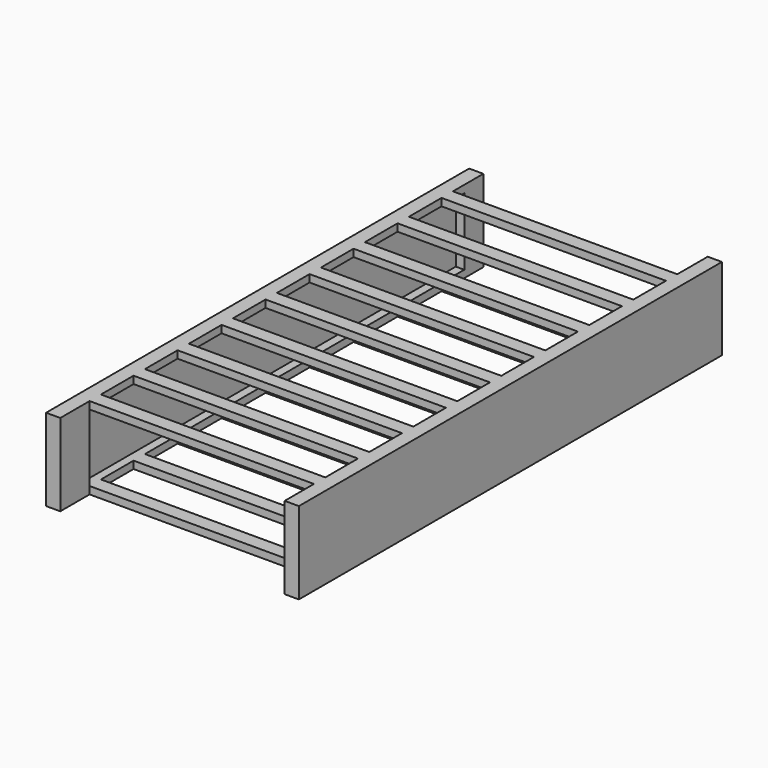
from build123d import *

# Parameters (mm, degrees)
F0_W     = 74.25791291
F0_H     = 4.7
F0_W_2   = 3.271043545
F0_W_3   = 1.428956455
F0_H_2   = 8.3906837511
F0_H_3   = 13.5
F0_H_4   = 7.9193162489
F1_DEPTH = 27.2
F2_W     = 39.9343147874
F2_H     = 22.3026155613
F3_DEPTH = 155


with BuildPart() as f1:
    # F0 (on Top) → F1 (new body)
    with BuildSketch(Plane.XY):
        Polygon((-41.828956455, 87.5000014901), (-41.828956455, 74.9143162489), (-40.4, 74.9143162489), (-40.4, 83.305), (-37.128956455, 83.305), (-37.128956455, 87.5000014901), align=None)
        with Locations((0, 72.5643162489)):
            Rectangle(F0_W, F0_H)
        with Locations((-38.7644782275, 72.5643162489)):
            Rectangle(F0_W_2, F0_H)
        with Locations((-41.1144782275, 72.5643162489)):
            Rectangle(F0_W_3, F0_H)
        with Locations((38.7644782275, 79.1096581244)):
            Rectangle(F0_W_2, F0_H_2)
        Polygon((37.128956455, 87.5000014901), (37.128956455, 83.305), (40.4, 83.305), (40.4, 74.9143162489), (41.828956455, 74.9143162489), (41.828956455, 87.5000014901), align=None)
        with Locations((38.7644782275, 72.5643162489)):
            Rectangle(F0_W_2, F0_H)
        with Locations((41.1144782275, 72.5643162489)):
            Rectangle(F0_W_3, F0_H)
        with Locations((-41.1144782275, 63.4643162489)):
            Rectangle(F0_W_3, F0_H_3)
        with Locations((-38.7644782275, 63.4643162489)):
            Rectangle(F0_W_2, F0_H_3)
        with Locations((38.7644782275, 63.4643162489)):
            Rectangle(F0_W_2, F0_H_3)
        with Locations((41.1144782275, 63.4643162489)):
            Rectangle(F0_W_3, F0_H_3)
        with Locations((41.1144782275, 54.3643162489)):
            Rectangle(F0_W_3, F0_H)
        with Locations((38.7644782275, 54.3643162489)):
            Rectangle(F0_W_2, F0_H)
        with Locations((0, 54.3643162489)):
            Rectangle(F0_W, F0_H)
        with Locations((-41.1144782275, 54.3643162489)):
            Rectangle(F0_W_3, F0_H)
        with Locations((-38.7644782275, 54.3643162489)):
            Rectangle(F0_W_2, F0_H)
        with Locations((-41.1144782275, 45.2643162489)):
            Rectangle(F0_W_3, F0_H_3)
        with Locations((-38.7644782275, 45.2643162489)):
            Rectangle(F0_W_2, F0_H_3)
        with Locations((38.7644782275, 45.2643162489)):
            Rectangle(F0_W_2, F0_H_3)
        with Locations((41.1144782275, 45.2643162489)):
            Rectangle(F0_W_3, F0_H_3)
        with Locations((-41.1144782275, 36.1643162489)):
            Rectangle(F0_W_3, F0_H)
        with Locations((-38.7644782275, 36.1643162489)):
            Rectangle(F0_W_2, F0_H)
        with Locations((0, 36.1643162489)):
            Rectangle(F0_W, F0_H)
        with Locations((38.7644782275, 36.1643162489)):
            Rectangle(F0_W_2, F0_H)
        with Locations((41.1144782275, 36.1643162489)):
            Rectangle(F0_W_3, F0_H)
        with Locations((-41.1144782275, 27.0643162489)):
            Rectangle(F0_W_3, F0_H_3)
        with Locations((-38.7644782275, 27.0643162489)):
            Rectangle(F0_W_2, F0_H_3)
        with Locations((38.7644782275, 27.0643162489)):
            Rectangle(F0_W_2, F0_H_3)
        with Locations((41.1144782275, 27.0643162489)):
            Rectangle(F0_W_3, F0_H_3)
        with Locations((-41.1144782275, 17.9643162489)):
            Rectangle(F0_W_3, F0_H)
        with Locations((-38.7644782275, 17.9643162489)):
            Rectangle(F0_W_2, F0_H)
        with Locations((0, 17.9643162489)):
            Rectangle(F0_W, F0_H)
        with Locations((38.7644782275, 17.9643162489)):
            Rectangle(F0_W_2, F0_H)
        with Locations((41.1144782275, 17.9643162489)):
            Rectangle(F0_W_3, F0_H)
        with Locations((-41.1144782275, 8.8643162489)):
            Rectangle(F0_W_3, F0_H_3)
        with Locations((-38.7644782275, 8.8643162489)):
            Rectangle(F0_W_2, F0_H_3)
        with Locations((-41.1144782275, -0.2356837511)):
            Rectangle(F0_W_3, F0_H)
        with Locations((-38.7644782275, -0.2356837511)):
            Rectangle(F0_W_2, F0_H)
        with Locations((0, -0.2356837511)):
            Rectangle(F0_W, F0_H)
        with Locations((38.7644782275, 8.8643162489)):
            Rectangle(F0_W_2, F0_H_3)
        with Locations((41.1144782275, 8.8643162489)):
            Rectangle(F0_W_3, F0_H_3)
        with Locations((38.7644782275, -0.2356837511)):
            Rectangle(F0_W_2, F0_H)
        with Locations((41.1144782275, -0.2356837511)):
            Rectangle(F0_W_3, F0_H)
        with Locations((-41.1144782275, -9.3356837511)):
            Rectangle(F0_W_3, F0_H_3)
        with Locations((-38.7644782275, -9.3356837511)):
            Rectangle(F0_W_2, F0_H_3)
        with Locations((-41.1144782275, -18.4356837511)):
            Rectangle(F0_W_3, F0_H)
        with Locations((-38.7644782275, -18.4356837511)):
            Rectangle(F0_W_2, F0_H)
        with Locations((0, -18.4356837511)):
            Rectangle(F0_W, F0_H)
        with Locations((38.7644782275, -9.3356837511)):
            Rectangle(F0_W_2, F0_H_3)
        with Locations((41.1144782275, -9.3356837511)):
            Rectangle(F0_W_3, F0_H_3)
        with Locations((38.7644782275, -18.4356837511)):
            Rectangle(F0_W_2, F0_H)
        with Locations((41.1144782275, -18.4356837511)):
            Rectangle(F0_W_3, F0_H)
        with Locations((-41.1144782275, -27.5356837511)):
            Rectangle(F0_W_3, F0_H_3)
        with Locations((-38.7644782275, -27.5356837511)):
            Rectangle(F0_W_2, F0_H_3)
        with Locations((38.7644782275, -27.5356837511)):
            Rectangle(F0_W_2, F0_H_3)
        with Locations((41.1144782275, -27.5356837511)):
            Rectangle(F0_W_3, F0_H_3)
        with Locations((-41.1144782275, -36.6356837511)):
            Rectangle(F0_W_3, F0_H)
        with Locations((-38.7644782275, -36.6356837511)):
            Rectangle(F0_W_2, F0_H)
        with Locations((0, -36.6356837511)):
            Rectangle(F0_W, F0_H)
        with Locations((38.7644782275, -36.6356837511)):
            Rectangle(F0_W_2, F0_H)
        with Locations((41.1144782275, -36.6356837511)):
            Rectangle(F0_W_3, F0_H)
        with Locations((-41.1144782275, -45.7356837511)):
            Rectangle(F0_W_3, F0_H_3)
        with Locations((-38.7644782275, -45.7356837511)):
            Rectangle(F0_W_2, F0_H_3)
        with Locations((-41.1144782275, -54.8356837511)):
            Rectangle(F0_W_3, F0_H)
        with Locations((-38.7644782275, -54.8356837511)):
            Rectangle(F0_W_2, F0_H)
        with Locations((0, -54.8356837511)):
            Rectangle(F0_W, F0_H)
        with Locations((38.7644782275, -54.8356837511)):
            Rectangle(F0_W_2, F0_H)
        with Locations((41.1144782275, -54.8356837511)):
            Rectangle(F0_W_3, F0_H)
        with Locations((38.7644782275, -45.7356837511)):
            Rectangle(F0_W_2, F0_H_3)
        with Locations((41.1144782275, -45.7356837511)):
            Rectangle(F0_W_3, F0_H_3)
        with Locations((-41.1144782275, -63.9356837511)):
            Rectangle(F0_W_3, F0_H_3)
        with Locations((-38.7644782275, -63.9356837511)):
            Rectangle(F0_W_2, F0_H_3)
        with Locations((38.7644782275, -63.9356837511)):
            Rectangle(F0_W_2, F0_H_3)
        with Locations((41.1144782275, -63.9356837511)):
            Rectangle(F0_W_3, F0_H_3)
        with Locations((-41.1144782275, -73.0356837511)):
            Rectangle(F0_W_3, F0_H)
        with Locations((-38.7644782275, -73.0356837511)):
            Rectangle(F0_W_2, F0_H)
        with Locations((0, -73.0356837511)):
            Rectangle(F0_W, F0_H)
        with Locations((38.7644782275, -73.0356837511)):
            Rectangle(F0_W_2, F0_H)
        with Locations((41.1144782275, -73.0356837511)):
            Rectangle(F0_W_3, F0_H)
        Polygon((-41.828956455, -87.4999985099), (-37.128956455, -87.4999985099), (-37.128956455, -83.305), (-40.4, -83.305), (-40.4, -75.3856837511), (-41.828956455, -75.3856837511), align=None)
        with Locations((-38.7644782275, -79.3453418756)):
            Rectangle(F0_W_2, F0_H_4)
        with Locations((38.7644782275, -79.3453418756)):
            Rectangle(F0_W_2, F0_H_4)
        Polygon((40.4, -83.305), (37.128956455, -83.305), (37.128956455, -87.4999985099), (41.828956455, -87.4999985099), (41.828956455, -75.3856837511), (40.4, -75.3856837511), align=None)
        with Locations((-38.7644782275, 79.1096581244)):
            Rectangle(F0_W_2, F0_H_2)
    extrude(amount=F1_DEPTH)

    # F2 (on face) → F3 (cut)
    with BuildSketch(Plane.XZ.offset(75.3856837511)):
        with Locations((19.9671573937, 13.6)):
            Rectangle(F2_W, F2_H)
        with Locations((-19.9671573937, 13.6)):
            Rectangle(F2_W, F2_H)
    extrude(amount=-F3_DEPTH, mode=Mode.SUBTRACT)


solid = f1.part
